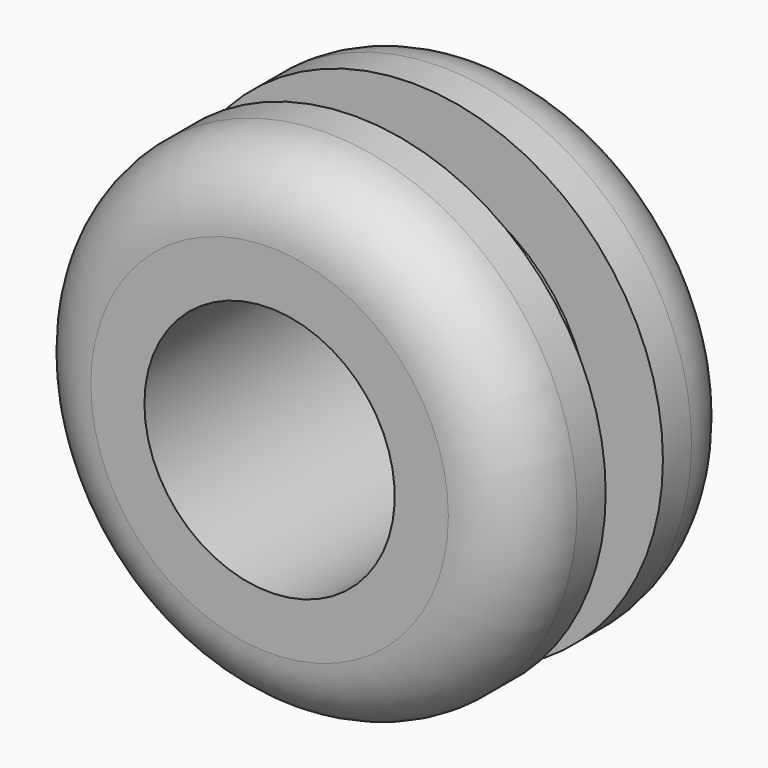
from build123d import *

# Parameters (mm, degrees)
F0_R      = 3.5
F1_DEPTH  = 1.5
F2_R      = 2.5
F3_DEPTH  = 1
F4_R      = 3.5
F4_R_2    = 2.5
F5_DEPTH  = 1.5
F6_R      = 1
F7_R      = 1
F10_R     = 3.5
F11_DEPTH = 1.5
F12_R     = 1
F13_D     = 3.5


with BuildPart() as f1:
    # F0 (on Front) → F1 (new body)
    with BuildSketch(Plane.XZ):
        Circle(F0_R)
    extrude(amount=F1_DEPTH)

    # F2 (on face) → F3 (join)
    with BuildSketch(Plane.XZ.offset(1.5)):
        Circle(F2_R)
    extrude(amount=F3_DEPTH)

    # F7
    f7_edges = [f1.edges().sort_by_distance(p)[0] for p in [
        (-3.5, 0, 0),
    ]]
    fillet(f7_edges, radius=F7_R)

    # F10 (on face) → F11 (join)
    with BuildSketch(Plane.XZ.offset(2.5)):
        Circle(F10_R)
    extrude(amount=F11_DEPTH)

    # F12
    f12_edges = [f1.edges().sort_by_distance(p)[0] for p in [
        (-3.5, -4, 0),
    ]]
    fillet(f12_edges, radius=F12_R)

    # F13 (through all)
    with Locations(Plane.XZ.offset(4)):
        with Locations((0, 0)):
            Hole(F13_D / 2)


with BuildPart() as f5:
    # F4 (on face) → F5 (new body)
    with BuildSketch(Plane.XZ.offset(2.5)):
        Circle(F4_R)
        Circle(F4_R_2, mode=Mode.SUBTRACT)
        Circle(F4_R_2)
    extrude(amount=F5_DEPTH)

    # F6
    f6_edges = [f5.edges().sort_by_distance(p)[0] for p in [
        (-3.5, -4, 0),
    ]]
    fillet(f6_edges, radius=F6_R)


solid = f1.part
